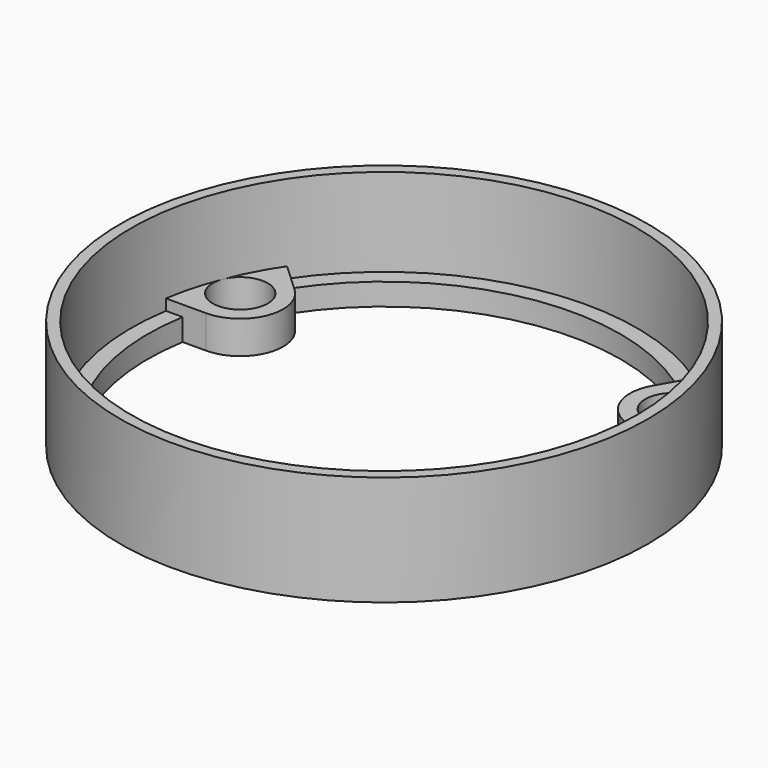
from build123d import *

# Parameters (mm, degrees)
SKETCH001_R        = 2.625
POCKET_DEPTH       = 5.5
PAD_DEPTH          = 3
POLARPATTERN_COUNT = 3
SKETCH002_R        = 2.5
POCKET001_DEPTH    = 13.001


with BuildPart() as part:
    # Sketch → Revolution (revolve)
    with BuildSketch(Plane.XZ):
        Polygon((21.5, 5), (21.5, 3), (24, 3), (24, 13), (23, 13), (23, 5), align=None)
    revolve(axis=Axis((0, 0, 0), (0, 0, 1)))

    # Sketch001 → Pocket (cut)
    with BuildSketch(Plane.XY):
        with Locations((-17.5, 0)):
            Circle(SKETCH001_R)
        with Locations((-8.75, 15.1554445662)):
            Circle(SKETCH001_R)
        with Locations((8.75, 15.1554445662)):
            Circle(SKETCH001_R)
        with Locations((17.5, 0)):
            Circle(SKETCH001_R)
        with Locations((8.75, -15.1554445662)):
            Circle(SKETCH001_R)
        with Locations((-8.75, -15.1554445662)):
            Circle(SKETCH001_R)
    extrude(amount=POCKET_DEPTH, mode=Mode.SUBTRACT)

    # Sketch003 → Pad (join)
    with BuildSketch(Plane.XY.offset(3)):
        with BuildLine():
            ThreePointArc((-19.0869375712, 12.8331139694), (-21.405483769, 8.4145864197), (-22.716513817, 3.6))
            Line((-19.0788007507, 3.6), (-22.716513817, 3.6))
            ThreePointArc((-19.0788007507, 3.6), (-15.4492148319, 6.0731518485), (-16.4230212393, 10.3559167367))
            Line((-16.4230212393, 10.3559167367), (-19.0869375712, 12.8331139694))
        make_face()
    pad = extrude(amount=PAD_DEPTH)

    # PolarPattern: Pad ×3 about axis
    polarpattern_axis = Axis((0, 0, 3), (0, 0, 1))
    for i in range(1, POLARPATTERN_COUNT):
        add(pad.rotate(polarpattern_axis, i * 360 / POLARPATTERN_COUNT))

    # Sketch002 → Pocket001 (cut, through all)
    with BuildSketch(Plane.XY):
        with Locations((16.0345540639, 12.7727473933)):
            Circle(SKETCH002_R)
        with Locations((3.0442466868, -20.2727048543)):
            Circle(SKETCH002_R)
        with Locations((-19.0788007507, 7.499957461)):
            Circle(SKETCH002_R)
    extrude(amount=POCKET001_DEPTH, mode=Mode.SUBTRACT)


solid = part.part
